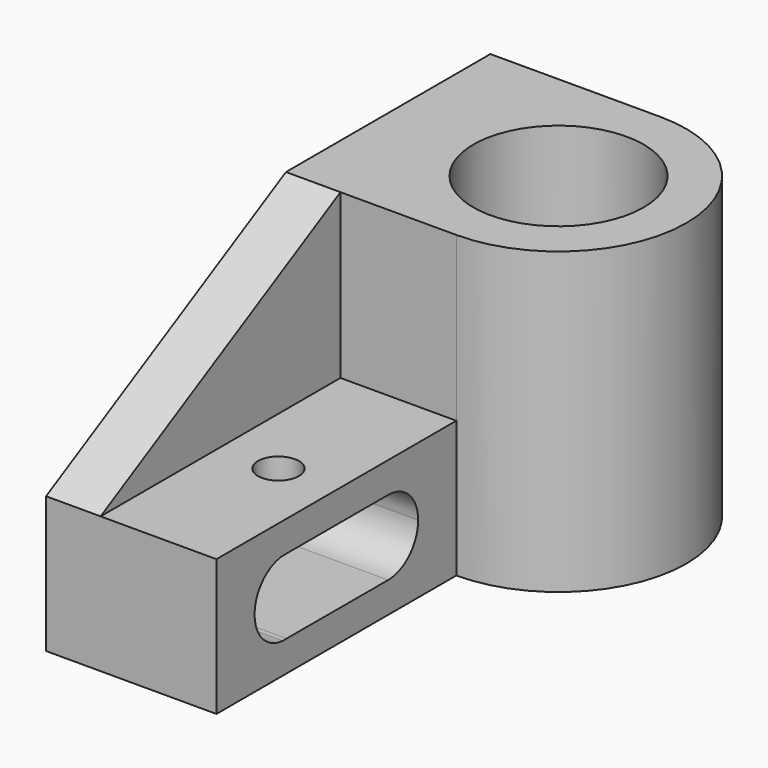
from build123d import *

# Parameters (mm, degrees)
F0_R     = 25
F1_DEPTH = 88
F3_DEPTH = 50
F5_DEPTH = 16
F6_R     = 6
F7_DEPTH = 9.001572688


with BuildPart() as f1:
    # F0 (on Top) → F1 (new body)
    with BuildSketch(Plane.XY):
        with BuildLine():
            Line((0, 75), (0, 0))
            Line((0, 0), (50, 0))
            ThreePointArc((50, 0), (12.5, 37.5), (50, 75))
            Line((50, 75), (0, 75))
        make_face()
        with BuildLine():
            ThreePointArc((50, 75), (12.5, 37.5), (50, 0))
            ThreePointArc((50, 0), (76.5165042945, 10.9834957055), (87.5, 37.5))
            ThreePointArc((87.5, 37.5), (76.5165042945, 64.0165042945), (50, 75))
        make_face()
        with Locations((50, 37.5)):
            Circle(F0_R, mode=Mode.SUBTRACT)
    extrude(amount=F1_DEPTH)

    # F2 (on Right) → F3 (join)
    with BuildSketch(Plane.YZ):
        Polygon((-88, 0), (0, 0), (0, 20), (0, 40), (-88, 40), align=None)
        with BuildLine():
            ThreePointArc((-25.000251984, 30.9999999971), (-17.2219144973, 27.7782636823), (-14, 20))
            ThreePointArc((-14, 20), (-17.2241933288, 12.2194582058), (-25.0066964749, 9.0000020383))
            Line((-25.0066964749, 9.0000020383), (-62.293662929, 9.0227012457))
            ThreePointArc((-62.293662929, 9.0227012457), (-63.0066964749, 9.0000020383), (-63.7197018551, 9.0235693762))
            ThreePointArc((-63.7197018551, 9.0235693762), (-73.9961566797, 20.2907546668), (-63.1386355855, 30.9991263369))
            ThreePointArc((-63.1386355855, 30.9991263369), (-63.000251984, 30.9999999971), (-62.8618683426, 30.999132677))
            Line((-62.8618683426, 30.999132677), (-25.000251984, 30.9999999971))
        make_face(mode=Mode.SUBTRACT)
    extrude(amount=F3_DEPTH)

    # F4 (on Right) → F5 (join)
    with BuildSketch(Plane.YZ):
        Polygon((-88, 40), (0, 40), (0, 88), align=None)
    extrude(amount=F5_DEPTH)

    # F6 (on face) → F7 (cut, through all)
    with BuildSketch(Plane.XY.offset(40)):
        with Locations((33, -44)):
            Circle(F6_R)
    extrude(amount=-F7_DEPTH, mode=Mode.SUBTRACT)


solid = f1.part
